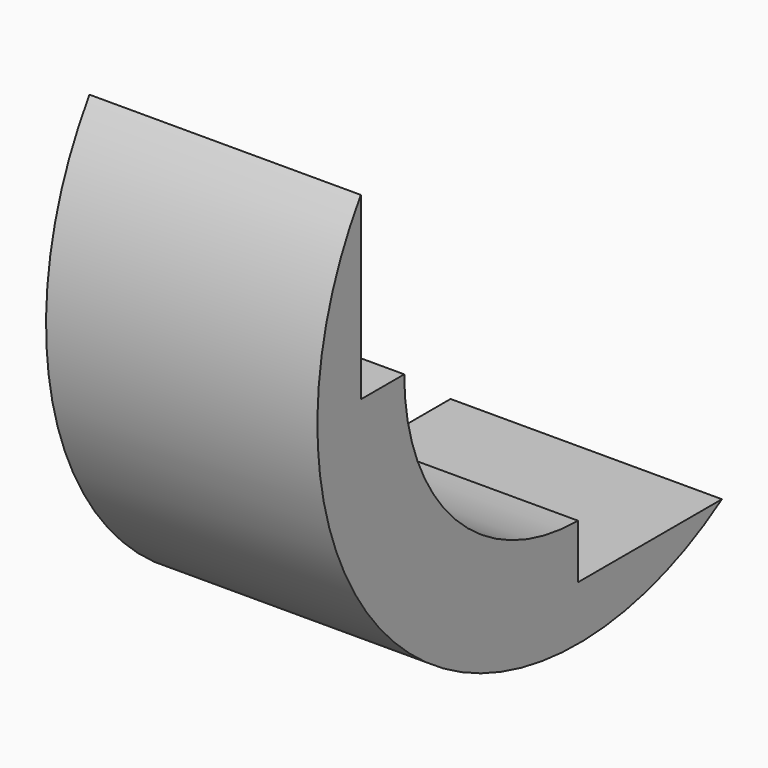
from build123d import *

# Parameters (mm, degrees)
BOX012_W      = 5
BOX012_H      = 10
BOX012_DEPTH  = 8
BOX011_W      = 5
BOX011_H      = 8
BOX011_DEPTH  = 10
TUBE005_R     = 6
TUBE005_R_2   = 4
TUBE005_DEPTH = 5


with BuildPart() as cube012:
    # Box012 → Box012 (new body)
    with BuildSketch(Plane(origin=(0, -2, 3), x_dir=(1, 0, 0), z_dir=(0, 0, 1))):
        with Locations((2.5, 5)):
            Rectangle(BOX012_W, BOX012_H)
    extrude(amount=BOX012_DEPTH)


with BuildPart() as cube011:
    # Box011 → Box011 (new body)
    with BuildSketch(Plane(origin=(0, 3, -2), x_dir=(1, 0, 0), z_dir=(0, 0, 1))):
        with Locations((2.5, 4)):
            Rectangle(BOX011_W, BOX011_H)
    extrude(amount=BOX011_DEPTH)


with BuildPart() as cut011:
    # Tube005 → Tube005 (new body)
    with BuildSketch(Plane(origin=(0, 3, 3), x_dir=(0, 0, -1), z_dir=(1, 0, 0))):
        Circle(TUBE005_R)
        Circle(TUBE005_R_2, mode=Mode.SUBTRACT)
    extrude(amount=TUBE005_DEPTH)

    # Cut010: cut Cube011
    add(cube011.part, mode=Mode.SUBTRACT)

    # Cut011: cut Cube012
    add(cube012.part, mode=Mode.SUBTRACT)


solid = cut011.part
